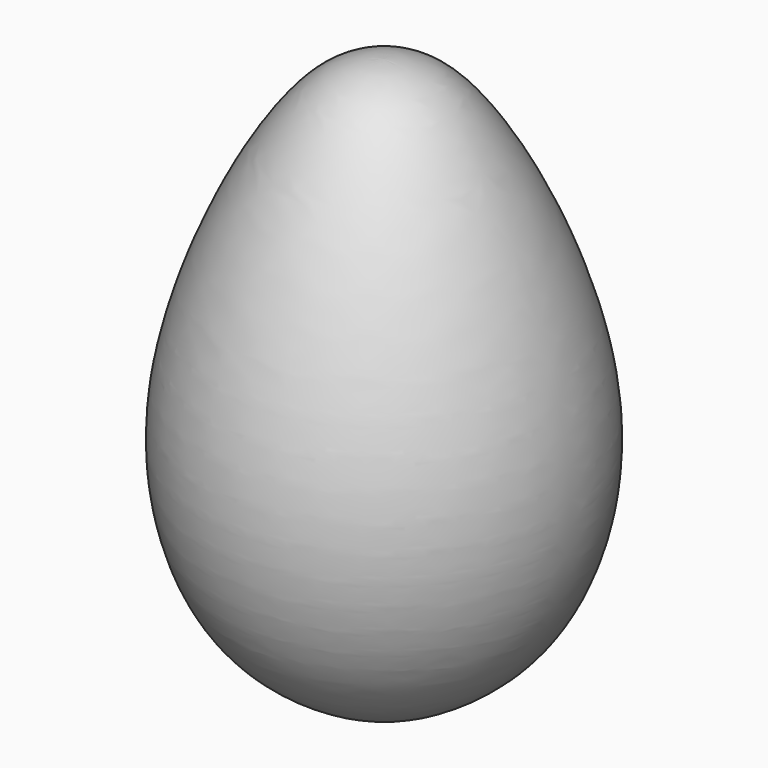
from build123d import *


with BuildPart() as f1:
    # F0 (on Front) → F1 (revolve)
    with BuildSketch(Plane.XZ):
        with BuildLine():
            add(Edge.make_bspline(
                [(0, 43.7119613894), (6.5464770588, 43.5959207861), (18.6834430675, 36.3523562112), (40.5972535224, -11.4752158169), (32.8969671474, -46.3643235265), (19.0056056037, -60.8196266846), (6.5205989173, -66.2880386106), (0, -66.2880386106)],
                knots=[0, 0, 0, 0, 0.1650434466, 0.439103978, 0.6649192361, 0.8317989551, 1, 1, 1, 1], degree=3))
            Line((0, 43.7119613894), (0, -66.2880386106))
        make_face()
    revolve(axis=Axis((0, 0, -11.2880386106), (0, 0, 1)))


solid = f1.part
